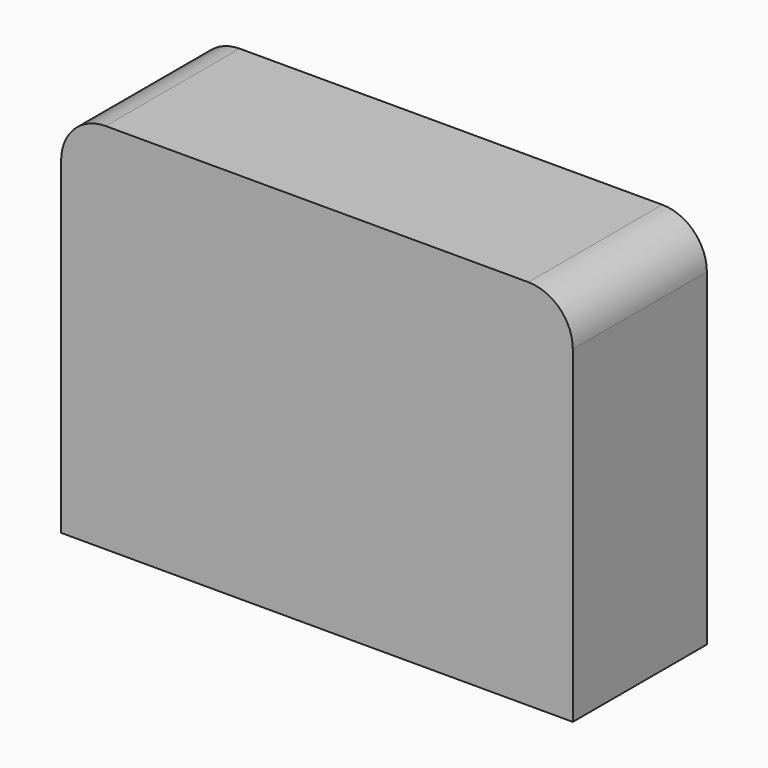
from build123d import *

# Parameters (mm, degrees)
F0_W     = 77.566948
F0_H     = 56.495611
F1_DEPTH = 25.4
F2_R     = 8.919249
F3_DEPTH = 25.4
F4_R     = 6.745313
F5_R     = 6.7564


with BuildPart() as f1:
    # F0 (on Front) → F1 (new body)
    with BuildSketch(Plane.XZ):
        with Locations((4.733415, -0.305383)):
            Rectangle(F0_W, F0_H)
    extrude(amount=F1_DEPTH)

    # F2 (on face) → F3 (join)
    with BuildSketch(Plane.XZ.offset(25.4)):
        Circle(F2_R)
    extrude(amount=-F3_DEPTH)

    # F4
    f4_edges = [f1.edges().sort_by_distance(p)[0] for p in [
        (-34.050059, -12.7, 27.942423),
    ]]
    fillet(f4_edges, radius=F4_R)

    # F5
    f5_edges = [f1.edges().sort_by_distance(p)[0] for p in [
        (43.516889, -12.7, 27.942423),
    ]]
    fillet(f5_edges, radius=F5_R)


solid = f1.part
